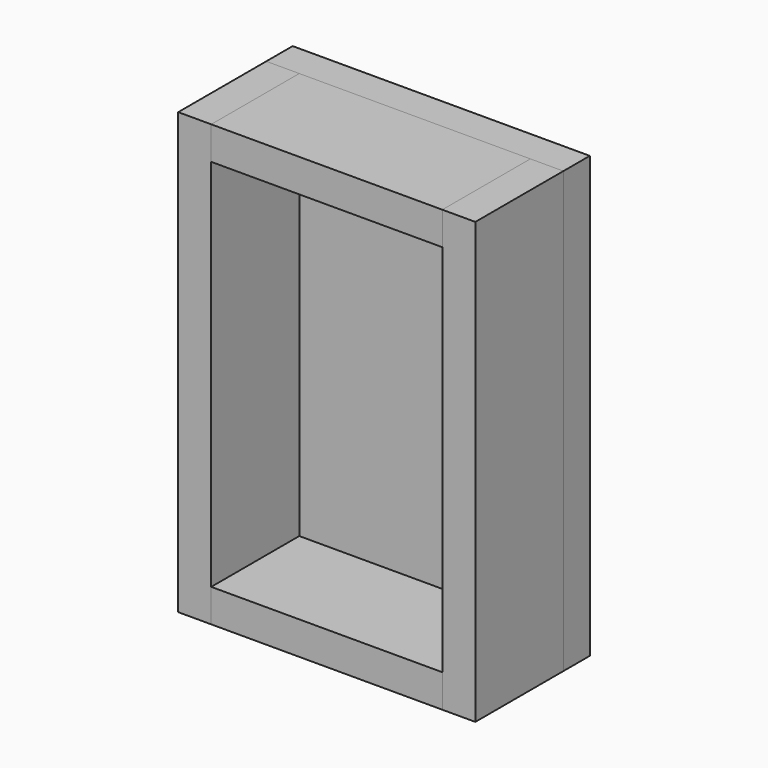
from build123d import *

# Parameters (mm, degrees)
F1_DEPTH = 135
F0_W     = 100
F0_H     = 30
F2_DEPTH = 105
F3_DEPTH = 105
F4_W     = 30
F4_H     = 400
F5_DEPTH = 100
F6_DEPTH = 100


with BuildPart() as f1:
    # F0 (on Right) → F1 (new body, symmetric)
    with BuildSketch(Plane.YZ):
        Polygon((0, -400), (0, 0), (-30, 0), (-30, -30), (-30, -370), (-30, -400), align=None)
    extrude(amount=F1_DEPTH, both=True)


with BuildPart() as f2:
    # F0 (on Right) → F2 (new body, symmetric)
    with BuildSketch(Plane.YZ):
        with Locations((-80, -15)):
            Rectangle(F0_W, F0_H)
    extrude(amount=F2_DEPTH, both=True)


with BuildPart() as f3:
    # F0 (on Right) → F3 (new body, symmetric)
    with BuildSketch(Plane.YZ):
        with Locations((-80, -385)):
            Rectangle(F0_W, F0_H)
    extrude(amount=F3_DEPTH, both=True)


with BuildPart() as f5:
    # F4 (on face) → F5 (new body, through all)
    with BuildSketch(Plane.XZ.offset(30)):
        with Locations((-120, -200)):
            Rectangle(F4_W, F4_H)
    extrude(amount=F5_DEPTH)


with BuildPart() as f6:
    # F4 (on face) → F6 (new body, through all)
    with BuildSketch(Plane.XZ.offset(30)):
        with Locations((120, -200)):
            Rectangle(F4_W, F4_H)
    extrude(amount=F6_DEPTH)


solid = Compound([f1.part, f2.part, f3.part, f5.part, f6.part])
